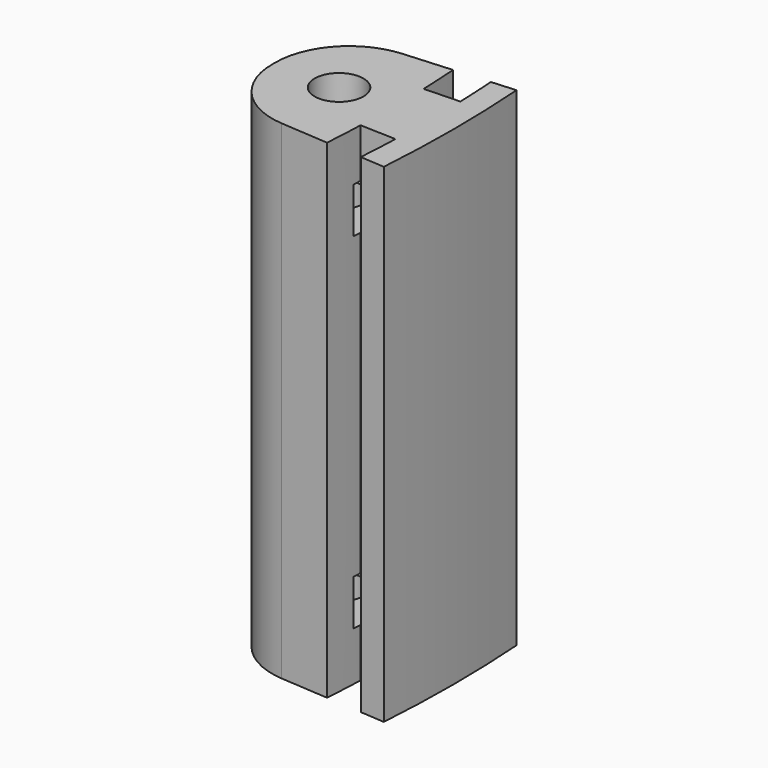
from build123d import *

# Parameters (mm, degrees)
SKETCH_R        = 1.5
PAD_DEPTH       = 30
POCKET_DEPTH    = 30.001
FILLET_R        = 4.5
SKETCH002_W     = 5.9
SKETCH002_H     = 2.8
POCKET001_DEPTH = 71


with BuildPart() as part:
    # Sketch → Pad (new body)
    with BuildSketch(Plane.XY):
        with BuildLine():
            Line((61.848971, 4.324901), (72.822176, 5.092223))
            ThreePointArc((72.822176, -5.092223), (73, 0), (72.822176, 5.092223))
            Line((72.822176, -5.092223), (61.848971, -4.324901))
            ThreePointArc((61.848971, -4.324901), (62, 0), (61.848971, 4.324901))
        make_face()
        with Locations((66, 0)):
            Circle(SKETCH_R, mode=Mode.SUBTRACT)
    extrude(amount=PAD_DEPTH)

    # Sketch001 (on Face7 of Pad) → Pocket (cut, through all)
    with BuildSketch(Plane.XY.offset(30)):
        with BuildLine():
            ThreePointArc((71.32583, -4.987588), (71.402012, -3.742021), (71.456444, -2.495314))
            Line((69.257784, -2.418535), (71.456444, -2.495314))
            ThreePointArc((69.131189, -4.834124), (69.205027, -3.626882), (69.257784, -2.418535))
            Line((69.131189, -4.834124), (71.32583, -4.987588))
        make_face()
        with BuildLine():
            Line((69.257784, 2.418535), (71.456444, 2.495314))
            ThreePointArc((71.456444, 2.495314), (71.402012, 3.742021), (71.32583, 4.987588))
            Line((69.131189, 4.834124), (71.32583, 4.987588))
            ThreePointArc((69.257784, 2.418535), (69.205027, 3.626882), (69.131189, 4.834124))
        make_face()
    extrude(amount=-POCKET_DEPTH, mode=Mode.SUBTRACT)

    # Fillet
    fillet_edges = [part.edges().sort_by_distance(p)[0] for p in [
        (61.848971, 4.324901, 15),
        (61.848971, -4.324901, 15),
    ]]
    fillet(fillet_edges, radius=FILLET_R)

    # Sketch002 → Pocket001 (cut)
    with BuildSketch(Plane.YZ):
        with Locations((0, 25.6)):
            Rectangle(SKETCH002_W, SKETCH002_H)
        with Locations((0, 4.4)):
            Rectangle(SKETCH002_W, SKETCH002_H)
    extrude(amount=POCKET001_DEPTH, mode=Mode.SUBTRACT)


solid = part.part
